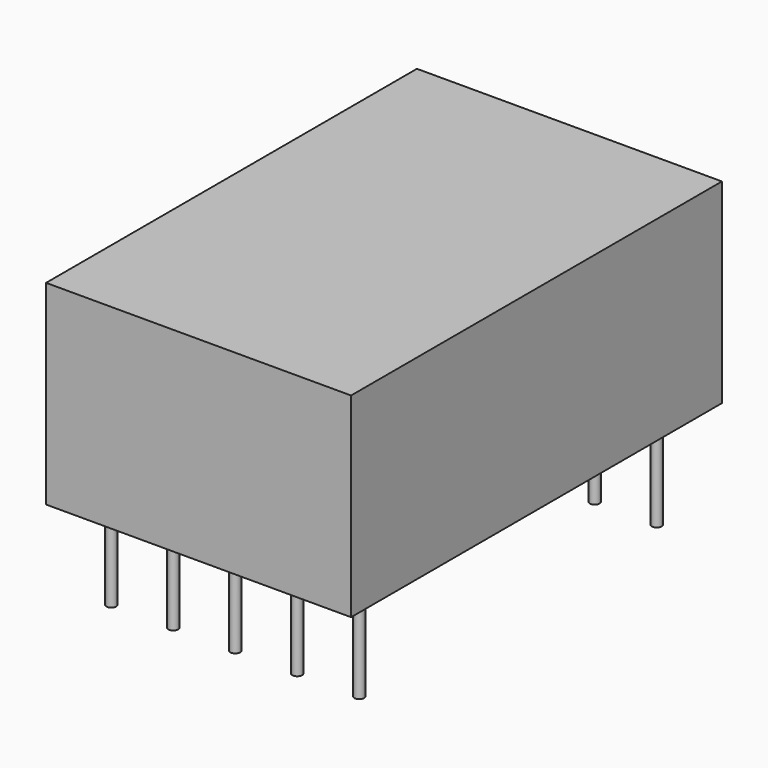
from build123d import *

# Parameters (mm, degrees)
F0_W     = 12.5
F0_H     = 19
F1_DEPTH = 8
F2_R     = 0.2
F3_DEPTH = 4


with BuildPart() as f1:
    # F0 (on Top) → F1 (new body)
    with BuildSketch(Plane.XY):
        Rectangle(F0_W, F0_H)
    extrude(amount=F1_DEPTH)

    # F2 (on face) → F3 (join)
    with BuildSketch(Plane(origin=(0, 0, 0), x_dir=(1, 0, 0), z_dir=(0, 0, -1))):
        with Locations((-5.08, -7.62)):
            Circle(F2_R)
        with Locations((-5.08, 7.62)):
            Circle(F2_R)
        with Locations((-2.54, -7.62)):
            Circle(F2_R)
        with Locations((-2.54, 7.62)):
            Circle(F2_R)
        with Locations((0, -7.62)):
            Circle(F2_R)
        with Locations((0, 7.62)):
            Circle(F2_R)
        with Locations((2.54, -7.62)):
            Circle(F2_R)
        with Locations((2.54, 7.62)):
            Circle(F2_R)
        with Locations((5.08, -7.62)):
            Circle(F2_R)
        with Locations((5.08, 7.62)):
            Circle(F2_R)
    extrude(amount=F3_DEPTH)


solid = f1.part
